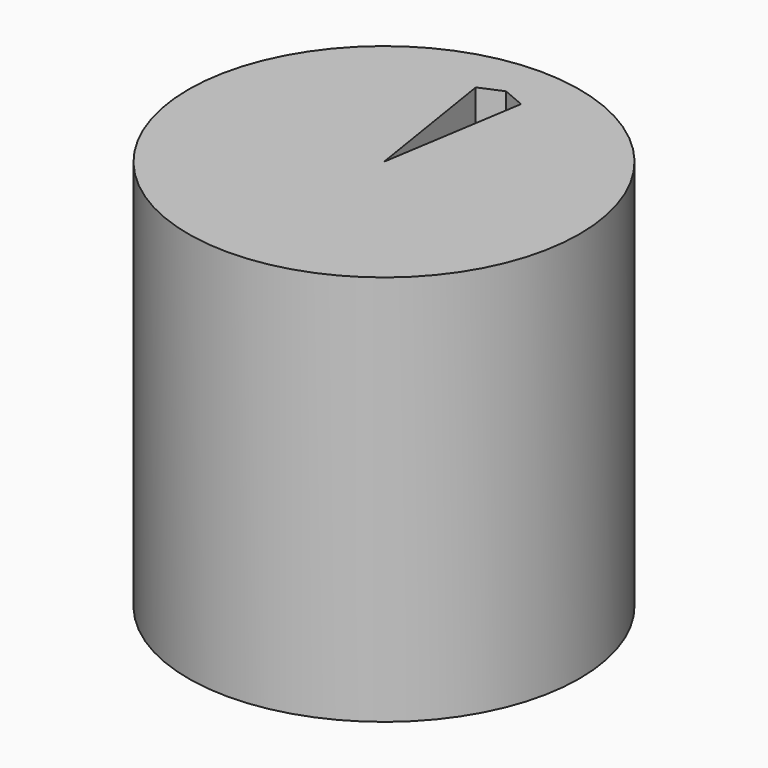
from build123d import *

# Parameters (mm, degrees)
F0_R     = 5
F1_DEPTH = 10


with BuildPart() as f1:
    # F0 (on Top) → F1 (new body)
    with BuildSketch(Plane.XY):
        Circle(F0_R)
        Polygon((0.578808, 3.654447), (0, 0), (-0.578808, 3.654447), (0, 3.9), align=None, mode=Mode.SUBTRACT)
    extrude(amount=F1_DEPTH)


solid = f1.part
